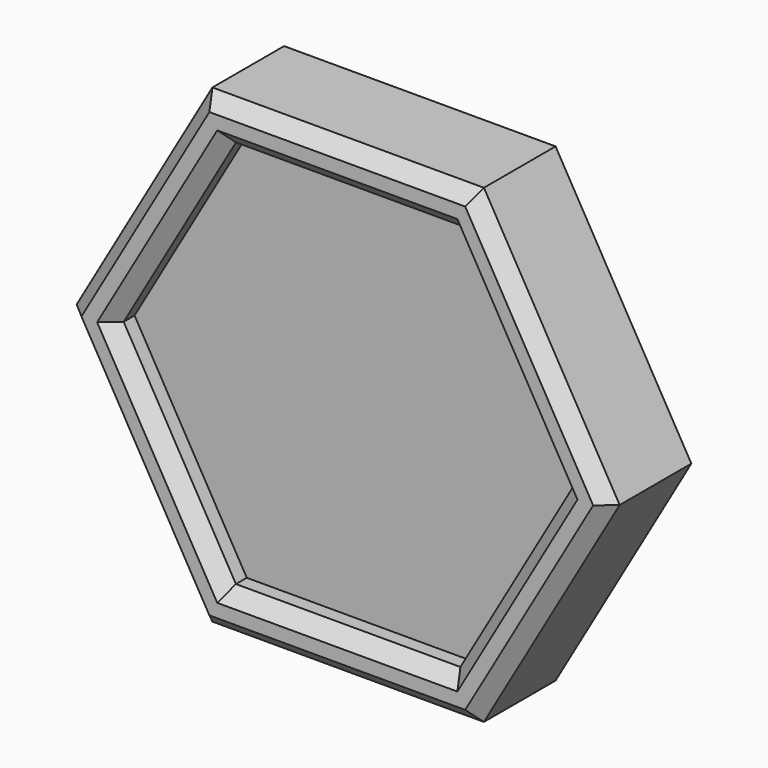
from build123d import *

# Parameters (mm, degrees)
F1_DEPTH = 380
F3_DEPTH = 100
F4_SIZE  = 50
F5_ANGLE = -90


with BuildPart() as f1:
    # F0 (on Top) → F1 (new body)
    with BuildSketch(Plane.XY):
        Polygon((500, 866.0254037844), (-500, 866.0254037844), (-1000, 0), (-500, -866.0254037844), (500, -866.0254037844), (1000, 0), align=None)
    extrude(amount=F1_DEPTH)

    # F2 (on face) → F3 (cut)
    with BuildSketch(Plane.XY.offset(380)):
        Polygon((-826.7949192431, 0), (-413.3974596216, -716.0254037844), (413.3974596216, -716.0254037844), (826.7949192431, 0), (413.3974596216, 716.0254037844), (-413.3974596216, 716.0254037844), align=None)
    extrude(amount=-F3_DEPTH, mode=Mode.SUBTRACT)

    # F4
    f4_edges = [f1.edges().sort_by_distance(p)[0] for p in [
        (0, 866.025404, 380),
        (750, 433.012702, 380),
        (-750, 433.012702, 380),
        (750, -433.012702, 380),
        (-750, -433.012702, 380),
        (0, -866.025404, 380),
        (0, 716.025404, 380),
        (-620.096189, 358.012702, 380),
        (-620.096189, -358.012702, 380),
        (0, -716.025404, 380),
        (620.096189, -358.012702, 380),
        (620.096189, 358.012702, 380),
    ]]
    chamfer(f4_edges, length=F4_SIZE)


with BuildPart() as f1_1:
    # F5: moved
    add(f1.part.rotate(Axis((0, -866.0254037844, 0), (-1, 0, 0)), F5_ANGLE))


solid = f1_1.part
